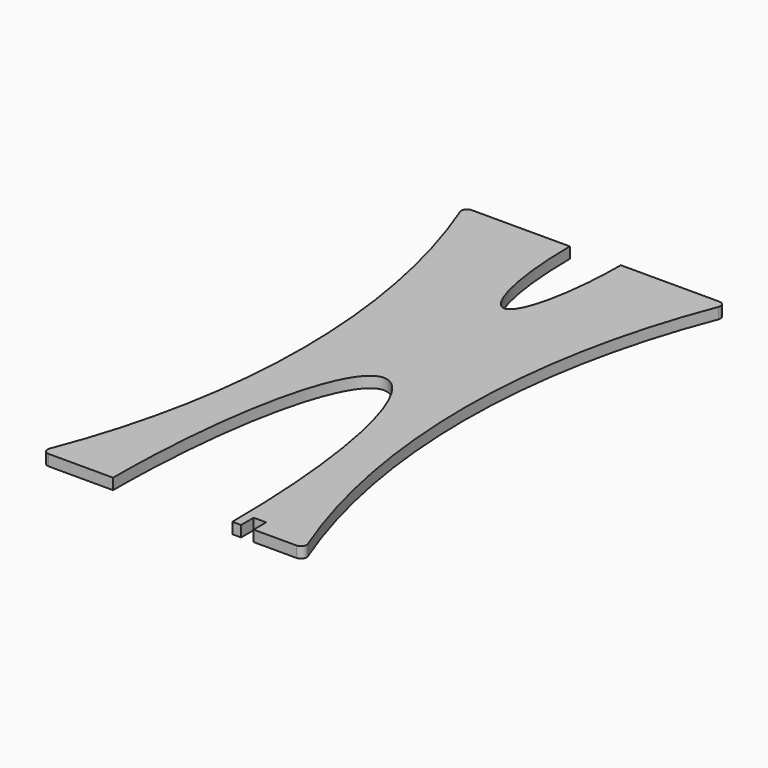
from build123d import *

# Parameters (mm, degrees)
F1_DEPTH = 12.7


with BuildPart() as f1:
    # F0 (on Top) → F1 (new body)
    with BuildSketch(Plane.XY):
        with BuildLine():
            add(Edge.make_bspline(
                [(68.8061999409, 0), (68.8061999409, 304.8), (0, 304.8)],
                knots=[4.7123889804, 4.7123889804, 4.7123889804, 6.2831853072, 6.2831853072, 6.2831853072], degree=2, weights=[1, 0.7071067812, 1]))
            Line((68.8061999409, 0), (78.9163857698, 0))
            Line((78.9163857698, 0), (78.9163857698, 18.1444995105))
            Line((78.9163857698, 18.1444995105), (93.4028401971, 18.1444995105))
            Line((93.4028401971, 18.1444995105), (93.4028401971, 0))
            Line((93.4028401971, 0), (143.0395694707, 0))
            ThreePointArc((143.0395694707, 0), (148.2842640953, 2.7701007983), (148.9531058802, 8.6635658915))
            ThreePointArc((148.9531058802, 8.6635658915), (93.0857662889, 304.8), (148.9531058802, 600.9364341085))
            ThreePointArc((148.9531058802, 600.9364341085), (148.2842640953, 606.8298992017), (143.0395694707, 609.6))
            Line((143.0395694707, 609.6), (29.4321160355, 609.6))
            add(Edge.make_bspline(
                [(0, 478.1525495466), (29.2977038939, 478.7228997007), (29.4321160355, 609.6)],
                knots=[3.1461804743, 3.1461804743, 3.1461804743, 4.7123889804, 4.7123889804, 4.7123889804], degree=2, weights=[1, 0.7087269589, 1]))
            add(Edge.make_bspline(
                [(-29.4321160355, 609.6), (-29.2977038939, 478.7228997007), (0, 478.1525495466)],
                knots=[4.7123889804, 4.7123889804, 4.7123889804, 6.2785974865, 6.2785974865, 6.2785974865], degree=2, weights=[1, 0.7087269589, 1]))
            Line((-29.4321160355, 609.6), (-143.0395694707, 609.6))
            ThreePointArc((-143.0395694707, 609.6), (-148.2842640953, 606.8298992017), (-148.9531058802, 600.9364341085))
            ThreePointArc((-148.9531058802, 600.9364341085), (-93.0857662889, 304.8), (-148.9531058802, 8.6635658915))
            ThreePointArc((-148.9531058802, 8.6635658915), (-148.2842640953, 2.7701007983), (-143.0395694707, 0))
            Line((-143.0395694707, 0), (-68.8061999409, 0))
            add(Edge.make_bspline(
                [(0, 304.8), (-68.8061999409, 304.8), (-68.8061999409, 0)],
                knots=[0, 0, 0, 1.5707963268, 1.5707963268, 1.5707963268], degree=2, weights=[1, 0.7071067812, 1]))
        make_face()
    extrude(amount=F1_DEPTH)


solid = f1.part
